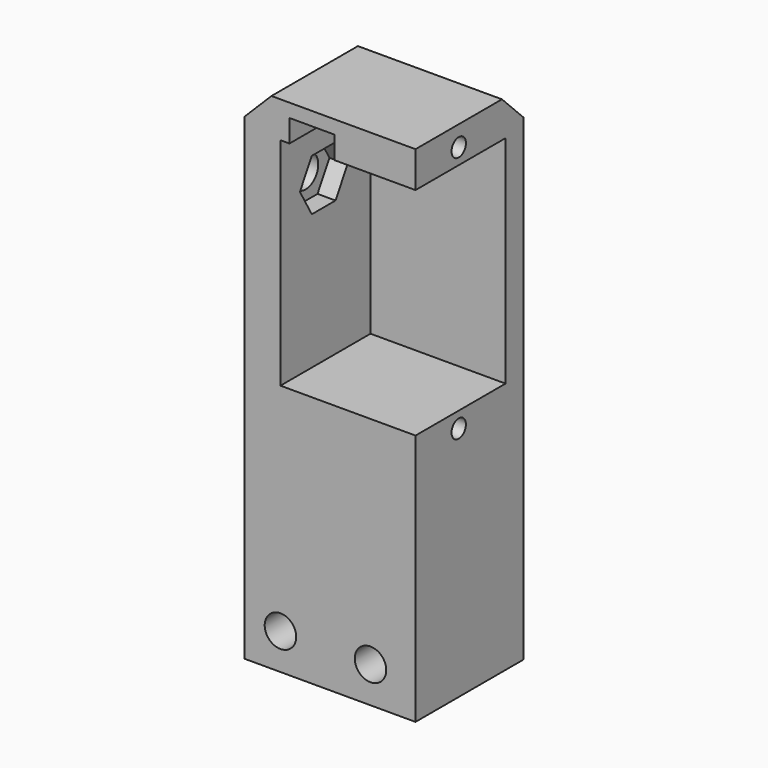
from build123d import *

# Parameters (mm, degrees)
BOX039_W               = 5
BOX039_H               = 12
BOX039_DEPTH           = 7.5
CYLINDER041_R          = 1.75
CYLINDER041_DEPTH      = 32
PRISM_DEPTH            = 10
SKETCH009_R            = 1
SKETCH009_W            = 24
SKETCH009_H            = 13
PAD004_DEPTH           = 30
CYLINDER039_R          = 1.75
CYLINDER039_DEPTH      = 32
CYLINDER039_ROLL_ANGLE = -90
CYLINDER040_R          = 1.75
CYLINDER040_DEPTH      = 32
CYLINDER040_ROLL_ANGLE = -90
BOX026_W               = 19
BOX026_H               = 15
BOX026_DEPTH           = 56
CHAMFER005_SIZE        = 3
FILLET054_R            = 0.5


with BuildPart() as cubo015:
    # Box039 → Box039 (new body)
    with BuildSketch(Plane(origin=(9, 97, 127), x_dir=(1, 0, 0), z_dir=(0, 0, 1))):
        with Locations((2.5, 6)):
            Rectangle(BOX039_W, BOX039_H)
    extrude(amount=BOX039_DEPTH)


with BuildPart() as cilindro016:
    # Cylinder041 → Cylinder041 (new body)
    with BuildSketch(Plane(origin=(-5, 104, 125.85), x_dir=(0, -1, 0), z_dir=(1, 0, 0))):
        Circle(CYLINDER041_R)
    extrude(amount=CYLINDER041_DEPTH)


with BuildPart() as fusion030:
    # Prism → Prism (new body)
    with BuildSketch(Plane(origin=(6, 104, 125.85), x_dir=(0, -1, 0), z_dir=(1, 0, 0))):
        Polygon((3.3, 0), (1.65, 2.857884), (-1.65, 2.857884), (-3.3, 0), (-1.65, -2.857884), (1.65, -2.857884), align=None)
    extrude(amount=PRISM_DEPTH)

    # Fusion030: union Cilindro016
    add(cilindro016.part)


with BuildPart() as pad004:
    # Sketch009 → Pad004 (new body)
    with BuildSketch(Plane(origin=(38, -16, 143.25), x_dir=(0, 0, -1), z_dir=(1, 0, 0))):
        with Locations((37, 120)):
            Circle(SKETCH009_R)
        with Locations((9.5, 120)):
            Circle(SKETCH009_R)
        with Locations((23.25, 120)):
            Rectangle(SKETCH009_W, SKETCH009_H)
    extrude(amount=-PAD004_DEPTH)


with BuildPart() as cilindro014:
    # Cylinder039 → Cylinder039 (new body)
    with BuildSketch(Plane.XY):
        Circle(CYLINDER039_R)
    extrude(amount=CYLINDER039_DEPTH)


with BuildPart() as cilindro014_1:
    # Cylinder039 roll: moved
    add(cilindro014.part.rotate(Axis((0, 0, 0), (1, 0, 0)), CYLINDER039_ROLL_ANGLE))


with BuildPart() as cilindro014_2:
    # Cylinder039 placement: moved
    add(cilindro014_1.part.moved(Location((8, 90, 84))))


with BuildPart() as fusion029:
    # Cylinder040 → Cylinder040 (new body)
    with BuildSketch(Plane.XY):
        Circle(CYLINDER040_R)
    extrude(amount=CYLINDER040_DEPTH)


with BuildPart() as fusion029_1:
    # Cylinder040 roll: moved
    add(fusion029.part.rotate(Axis((0, 0, 0), (1, 0, 0)), CYLINDER040_ROLL_ANGLE))


with BuildPart() as fusion029_2:
    # Cylinder040 placement: moved
    add(fusion029_1.part.moved(Location((18, 90, 84))))

    # Fusion029: union Cilindro014
    add(cilindro014_2.part)


with BuildPart() as fillet054:
    # Box026 → Box026 (new body)
    with BuildSketch(Plane(origin=(4, 98, 80), x_dir=(1, 0, 0), z_dir=(0, 0, 1))):
        with Locations((9.5, 7.5)):
            Rectangle(BOX026_W, BOX026_H)
    extrude(amount=BOX026_DEPTH)

    # Cut042: cut Fusion029
    add(fusion029_2.part, mode=Mode.SUBTRACT)

    # Cut043: cut Pad004
    add(pad004.part, mode=Mode.SUBTRACT)

    # Chamfer005
    chamfer005_edges = [fillet054.edges().sort_by_distance(p)[0] for p in [
        (4, 105.5, 136),
        (13.5, 113, 136),
    ]]
    chamfer(chamfer005_edges, length=CHAMFER005_SIZE)

    # Cut044: cut Fusion030
    add(fusion030.part, mode=Mode.SUBTRACT)

    # Cut055: cut Cubo015
    add(cubo015.part, mode=Mode.SUBTRACT)

    # Fillet054
    fillet054_edges = [fillet054.edges().sort_by_distance(p)[0] for p in [
        (11.5, 109, 134.5),
    ]]
    fillet(fillet054_edges, radius=FILLET054_R)


solid = fillet054.part
